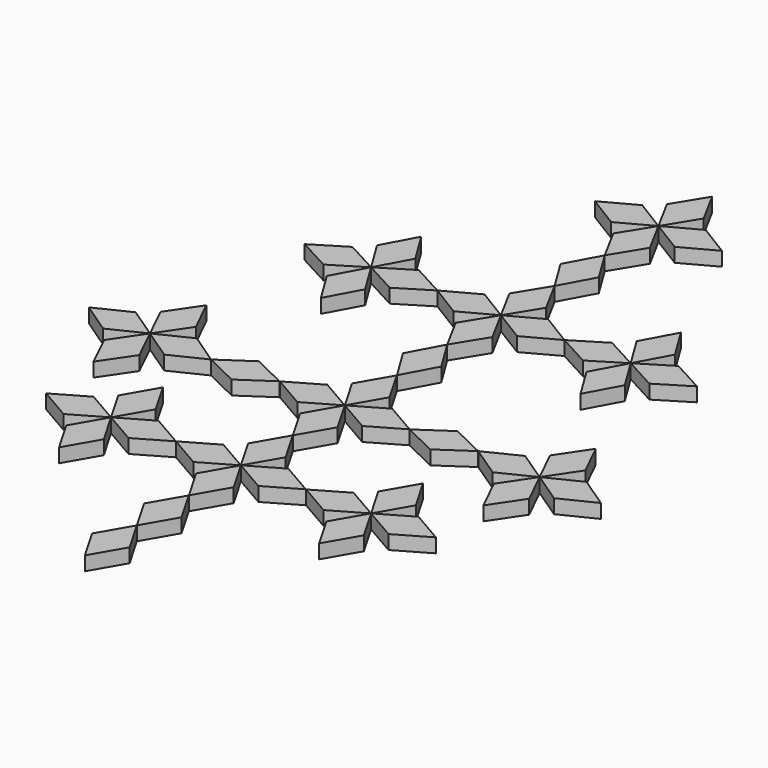
from build123d import *

# Parameters (mm, degrees)
F4_DEPTH = 1.5


with BuildPart() as f4:
    # F1 (on Top) + F0 (on Top) + F3 (on Top) + F2 (on Top) → F4 (new body)
    with BuildSketch(Plane.XY):
        Polygon((2, -17.340826), (0, -13.876724), (-2, -17.340826), (0, -20.804927), align=None)
        Polygon((-2, -10.412622), (0, -13.876724), (2, -10.412622), (0, -6.948521), align=None)
        Polygon((-2.093328, 24.234348), (0, 20.825832), (1.905198, 24.342965), (-0.18813, 27.751481), align=None)
        Polygon((-2.093328, 31.268613), (-0.18813, 27.751481), (1.905198, 31.159996), (0, 34.677129), align=None)
        Polygon((3.517133, 36.582327), (0, 34.677129), (3.408516, 32.583802), (6.925648, 34.488999), align=None)
        Polygon((-1.905198, 38.194262), (0, 34.677129), (2.093328, 38.085645), (0.18813, 41.602778), align=None)
        Polygon((-3.517133, 32.771932), (0, 34.677129), (-3.408516, 36.770457), (-6.925648, 34.865259), align=None)
        Polygon((10.334164, 36.582327), (6.925648, 34.488999), (10.442781, 32.583802), (13.851297, 34.677129), align=None)
        Polygon((15.944625, 31.268613), (13.851297, 34.677129), (11.946099, 31.159996), (14.039427, 27.751481), align=None)
        Polygon((17.259813, 36.770457), (13.851297, 34.677129), (17.36843, 32.771932), (20.776945, 34.865259), align=None)
        Polygon((11.757969, 38.085645), (13.851297, 34.677129), (15.756495, 38.194262), (13.663167, 41.602778), align=None)
        Polygon((-1.905198, 45.011293), (0.18813, 41.602778), (2.093328, 45.11991), (0, 48.528426), align=None)
        Polygon((-1.905198, 52.045559), (0, 48.528426), (2.093328, 51.936942), (0.18813, 55.454075), align=None)
        Polygon((3.705263, 57.359272), (0.18813, 55.454075), (3.596646, 53.360747), (7.113778, 55.265945), align=None)
        Polygon((-1.717068, 58.971207), (0.18813, 55.454075), (2.281458, 58.86259), (0.37626, 62.379723), align=None)
        Polygon((-3.329003, 53.548877), (0.18813, 55.454075), (-3.220386, 57.547402), (-6.737519, 55.642205), align=None)
        Polygon((-11.757969, 31.268613), (-13.851297, 34.677129), (-15.756495, 31.159996), (-13.663167, 27.751481), align=None)
        Polygon((-10.334164, 32.771932), (-6.925648, 34.865259), (-10.442781, 36.770457), (-13.851297, 34.677129), align=None)
        Polygon((-15.944625, 38.085645), (-13.851297, 34.677129), (-11.946099, 38.194262), (-14.039427, 41.602778), align=None)
        Polygon((-17.259813, 32.583802), (-13.851297, 34.677129), (-17.36843, 36.582327), (-20.776945, 34.488999), align=None)
    with BuildSketch(Plane.XY):
        Polygon((2, -3.464102), (0, 0), (-2, -3.464102), (0, -6.928203), align=None)
        Polygon((3.464102, 2), (0, 0), (3.464102, -2), (6.928203, 0), align=None)
        Polygon((2, 3.464102), (0, 6.928203), (-2, 3.464102), (0, 0), align=None)
        Polygon((-3.464102, -2), (0, 0), (-3.464102, 2), (-6.928203, 0), align=None)
        Polygon((-10.392305, -2), (-6.928203, 0), (-10.392305, 2), (-13.856406, 0), align=None)
        Polygon((-11.856406, -3.464102), (-13.856406, 0), (-15.856406, -3.464102), (-13.856406, -6.928203), align=None)
        Polygon((-17.320508, -2), (-13.856406, 0), (-17.320508, 2), (-20.78461, 0), align=None)
        Polygon((-15.856406, 3.464102), (-13.856406, 0), (-11.856406, 3.464102), (-13.856406, 6.928203), align=None)
        Polygon((-2, 10.392305), (0, 6.928203), (2, 10.392305), (0, 13.856406), align=None)
        Polygon((3.464102, 15.856406), (0, 13.856406), (3.464102, 11.856406), (6.928203, 13.856406), align=None)
        Polygon((-2, 17.320508), (0, 13.856406), (2, 17.320508), (0, 20.78461), align=None)
        Polygon((-3.464102, 11.856406), (0, 13.856406), (-3.464102, 15.856406), (-6.928203, 13.856406), align=None)
    with BuildSketch(Plane.XY):
        Polygon((10.424917, -2), (13.889018, 0), (10.424917, 2), (6.960815, 0), align=None)
        Polygon((11.889018, 3.464102), (13.889018, 0), (15.889018, 3.464102), (13.889018, 6.928203), align=None)
        Polygon((17.35312, 2), (13.889018, 0), (17.35312, -2), (20.817221, 0), align=None)
        Polygon((15.889018, -3.464102), (13.889018, 0), (11.889018, -3.464102), (13.889018, -6.928203), align=None)
    with BuildSketch(Plane.XY):
        Polygon((10.52747, 12.102191), (13.834151, 14.352938), (10.231607, 16.091234), (6.924926, 13.840488), align=None)
        Polygon((20.758415, 13.892031), (17.435053, 16.118074), (13.845562, 14.352981), (17.168924, 12.126937), align=None)
        Polygon((22.523508, 10.302541), (20.758415, 13.892031), (18.532371, 10.56867), (20.297465, 6.979179), align=None)
        Polygon((24.347905, 15.657125), (20.758415, 13.892031), (24.081776, 11.665988), (27.671267, 13.431082), align=None)
        Polygon((18.993321, 17.481522), (20.758415, 13.892031), (22.984458, 17.215393), (21.219364, 20.804883), align=None)
        Polygon((-10.272691, 11.60887), (-6.959613, 13.850189), (-10.557192, 15.598739), (-13.87027, 13.357419), align=None)
        Polygon((-17.467849, 11.60887), (-13.87027, 13.357419), (-17.183348, 15.598739), (-20.780927, 13.850189), align=None)
        Polygon((-19.032377, 10.252611), (-20.780927, 13.850189), (-23.022246, 10.537111), (-21.273697, 6.939533), align=None)
        Polygon((-24.378506, 12.10164), (-20.780927, 13.850189), (-24.094005, 16.091509), (-27.691584, 14.342959), align=None)
        Polygon((-22.529476, 17.447768), (-20.780927, 13.850189), (-18.539607, 17.163267), (-20.288157, 20.760846), align=None)
    extrude(amount=F4_DEPTH)


solid = f4.part
